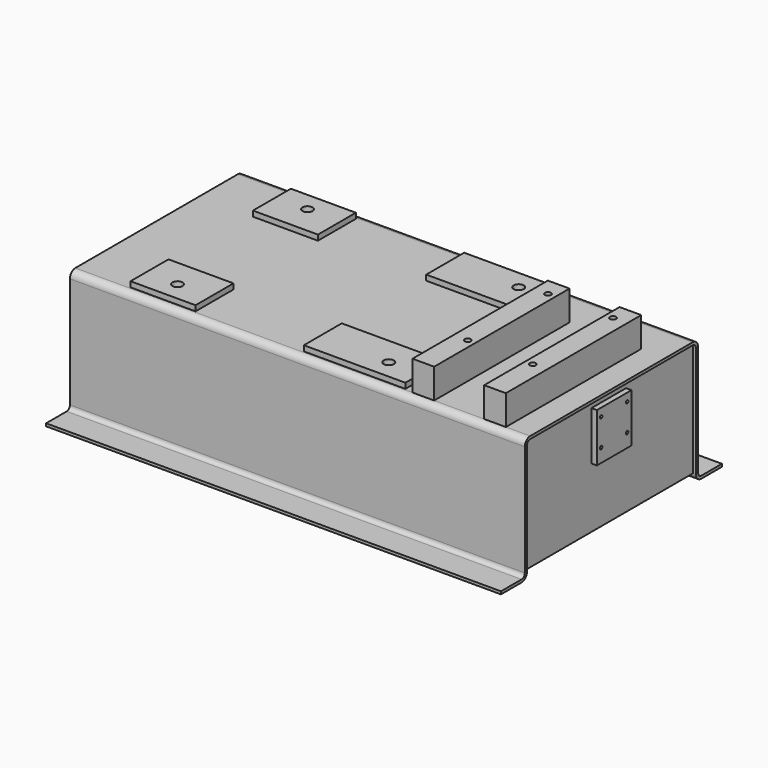
from build123d import *

# Parameters (mm, degrees)
F1_DEPTH  = 1066.8
F2_W      = 101.6
F2_H      = 793.75
F2_R      = 14.2875
F3_DEPTH  = 139.7
F4_W      = 304.8
F4_H      = 222.25
F4_R      = 23.8125
F4_W_2    = 476.25
F5_DEPTH  = 25.4
F8_DEPTH  = 12.7
F9_W      = 101.6
F9_H      = 228.6
F9_R      = 7.14375
F10_DEPTH = 25.4


with BuildPart() as f1:
    # F0 (on Right) → F1 (new body, symmetric)
    with BuildSketch(Plane.YZ):
        with BuildLine():
            Line((476.25, 292.1), (-476.25, 292.1))
            ThreePointArc((-476.25, 292.1), (-498.7006403027, 282.8006403027), (-508, 260.35))
            Line((-508, 260.35), (-508, -260.35))
            ThreePointArc((-508, -260.35), (-513.5796158184, -273.8203841816), (-527.05, -279.4))
            Line((-527.05, -279.4), (-647.7, -279.4))
            Line((-647.7, -279.4), (-647.7, -292.1))
            Line((-647.7, -292.1), (-527.05, -292.1))
            ThreePointArc((-527.05, -292.1), (-504.5993596973, -282.8006403027), (-495.3, -260.35))
            Line((-495.3, -260.35), (-495.3, 260.35))
            ThreePointArc((-495.3, 260.35), (-489.7203841816, 273.8203841816), (-476.25, 279.4))
            Line((-476.25, 279.4), (476.25, 279.4))
            ThreePointArc((476.25, 279.4), (489.7203841816, 273.8203841816), (495.3, 260.35))
            Line((495.3, 260.35), (495.3, -260.35))
            ThreePointArc((495.3, -260.35), (504.5993596973, -282.8006403027), (527.05, -292.1))
            Line((527.05, -292.1), (647.7, -292.1))
            Line((647.7, -292.1), (647.7, -279.4))
            Line((647.7, -279.4), (527.05, -279.4))
            ThreePointArc((527.05, -279.4), (513.5796158184, -273.8203841816), (508, -260.35))
            Line((508, -260.35), (508, 260.35))
            ThreePointArc((508, 260.35), (498.7006403027, 282.8006403027), (476.25, 292.1))
        make_face()
    extrude(amount=F1_DEPTH, both=True)

    # F2 (on face) → F3 (join)
    with BuildSketch(Plane.XY.offset(292.1)):
        with Locations((901.7, -79.375)):
            Rectangle(F2_W, F2_H)
        with Locations((885.952, -234.95)):
            Circle(F2_R, mode=Mode.SUBTRACT)
        with Locations((885.952, 234.95)):
            Circle(F2_R, mode=Mode.SUBTRACT)
        with Locations((565.404, -79.375)):
            Rectangle(F2_W, F2_H)
        with Locations((581.152, -234.95)):
            Circle(F2_R, mode=Mode.SUBTRACT)
        with Locations((581.152, 234.95)):
            Circle(F2_R, mode=Mode.SUBTRACT)
    extrude(amount=F3_DEPTH)

    # F4 (on face) → F5 (join)
    with BuildSketch(Plane.XY.offset(292.1)):
        with Locations((-660.4, -358.775)):
            Rectangle(F4_W, F4_H)
        with Locations((-663.448, -381)):
            Circle(F4_R, mode=Mode.SUBTRACT)
        with Locations((238.125, -358.775)):
            Rectangle(F4_W_2, F4_H)
        with Locations((327.152, -381)):
            Circle(F4_R, mode=Mode.SUBTRACT)
        with Locations((238.125, 358.775)):
            Rectangle(F4_W_2, F4_H)
        with Locations((327.152, 381)):
            Circle(F4_R, mode=Mode.SUBTRACT)
        with Locations((-660.4, 358.775)):
            Rectangle(F4_W, F4_H)
        with Locations((-663.448, 381)):
            Circle(F4_R, mode=Mode.SUBTRACT)
    extrude(amount=F5_DEPTH)

    # F7 (on offset) → F8 (join)
    with BuildSketch(Plane.YZ.offset(1041.4)):
        Polygon((495.3, -260.35), (495.3, 260.35), (476.25, 279.4), (-476.25, 279.4), (-495.3, 260.35), (-495.3, -260.35), align=None)
    extrude(amount=F8_DEPTH)

    # F9 (on face) → F10 (join)
    with BuildSketch(Plane.YZ.offset(1054.1)):
        with Locations((50.8, 136.525)):
            Rectangle(F9_W, F9_H)
        with Locations((76.2, 85.852)):
            Circle(F9_R, mode=Mode.SUBTRACT)
        with Locations((76.2, 212.852)):
            Circle(F9_R, mode=Mode.SUBTRACT)
        with Locations((-50.8, 136.525)):
            Rectangle(F9_W, F9_H)
        with Locations((-76.2, 85.852)):
            Circle(F9_R, mode=Mode.SUBTRACT)
        with Locations((-76.2, 212.852)):
            Circle(F9_R, mode=Mode.SUBTRACT)
    extrude(amount=F10_DEPTH)


solid = f1.part
